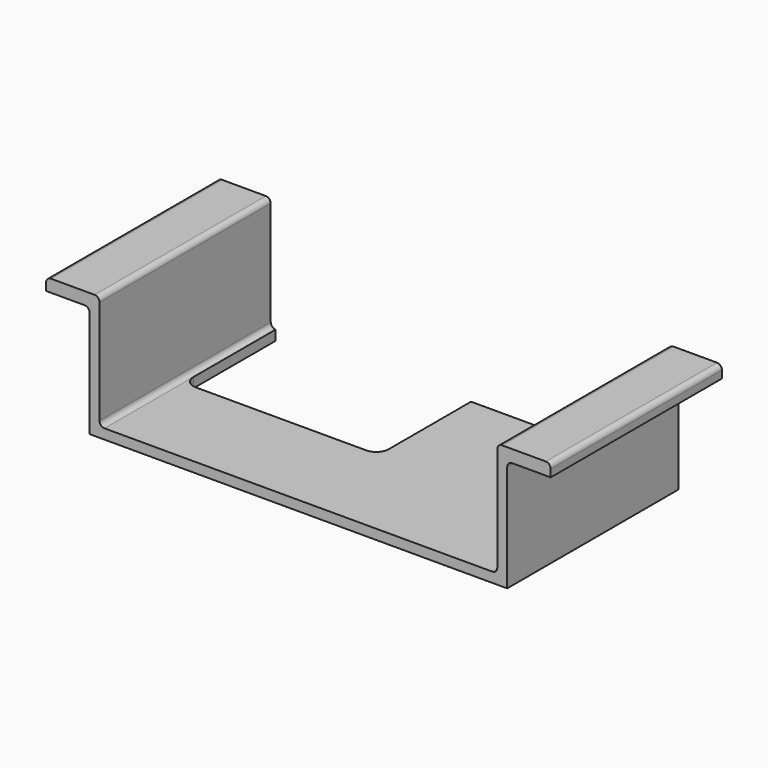
from build123d import *

# Parameters (mm, degrees)
F0_W      = 203
F0_H      = 86.0950331151
F1_DEPTH  = 50
F2_W      = 17.5
F2_H      = 45
F3_DEPTH  = 86.0960331151
F4_W      = 17.5
F4_H      = 45
F5_DEPTH  = 86.0960331151
F6_W      = 160
F6_H      = 46
F7_DEPTH  = 86.0960331151
F8_R      = 2
F9_W      = 78.5769208074
F9_H      = 46.412901438
F10_DEPTH = 25
F11_R     = 5


with BuildPart() as f1:
    # F0 (on Top) → F1 (new body)
    with BuildSketch(Plane.XY):
        with Locations((-0.5769208074, -2.0192312077)):
            Rectangle(F0_W, F0_H)
    extrude(amount=F1_DEPTH)

    # F2 (on face) → F3 (cut, through all)
    with BuildSketch(Plane.XZ.offset(45.0667477652)):
        with Locations((-93.3269208074, 22.5)):
            Rectangle(F2_W, F2_H)
    extrude(amount=-F3_DEPTH, mode=Mode.SUBTRACT)

    # F4 (on face) → F5 (cut, through all)
    with BuildSketch(Plane.XZ.offset(45.0667477652)):
        with Locations((92.1730791926, 22.5)):
            Rectangle(F4_W, F4_H)
    extrude(amount=-F5_DEPTH, mode=Mode.SUBTRACT)

    # F6 (on face) → F7 (cut, through all)
    with BuildSketch(Plane.XZ.offset(45.0667477652)):
        with Locations((-0.5769208074, 27)):
            Rectangle(F6_W, F6_H)
    extrude(amount=-F7_DEPTH, mode=Mode.SUBTRACT)

    # F8
    f8_edges = [f1.edges().sort_by_distance(p)[0] for p in [
        (79.423079, -2.019231, 50),
        (-80.576921, -2.019231, 50),
        (-84.576921, -2.019231, 45),
        (83.423079, -2.019231, 45),
        (79.423079, -2.019231, 4),
        (-80.576921, -2.019231, 4),
        (100.923079, -2.019231, 50),
        (-102.076921, -2.019231, 50),
    ]]
    fillet(f8_edges, radius=F8_R)

    # F9 (on face) → F10 (cut)
    with BuildSketch(Plane.XY.offset(4)):
        with Locations((-39.2884604037, 17.8218346309)):
            Rectangle(F9_W, F9_H)
    extrude(amount=-F10_DEPTH, mode=Mode.SUBTRACT)

    # F11
    f11_edges = [f1.edges().sort_by_distance(p)[0] for p in [
        (0, -5.384616, 2),
        (-78.576921, -5.384616, 2),
    ]]
    fillet(f11_edges, radius=F11_R)


solid = f1.part
